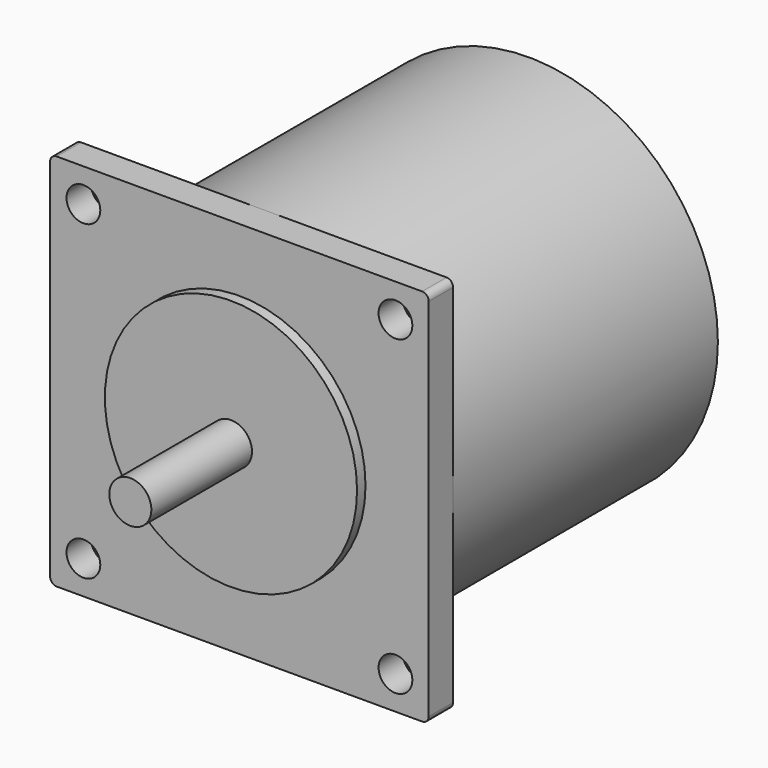
from build123d import *

# Parameters (mm, degrees)
PAD_DEPTH    = 4.6
SKETCH001_R  = 2.55
POCKET_DEPTH = 4.601
SKETCH002_R  = 19.05
PAD001_DEPTH = 1.6
SKETCH003_R  = 3.175
PAD002_DEPTH = 20.6
SKETCH004_R  = 28.6
PAD003_DEPTH = 50


with BuildPart() as part:
    # Sketch → Pad (new body)
    with BuildSketch(Plane.XZ):
        with BuildLine():
            Line((-27.6, 28.6), (27.6, 28.6))
            ThreePointArc((28.6, 27.6), (28.307107, 28.307107), (27.6, 28.6))
            Line((28.6, 27.6), (28.6, -27.6))
            ThreePointArc((27.6, -28.6), (28.307107, -28.307107), (28.6, -27.6))
            Line((27.6, -28.6), (-27.6, -28.6))
            ThreePointArc((-28.6, -27.6), (-28.307107, -28.307107), (-27.6, -28.6))
            Line((-28.6, -27.6), (-28.6, 27.6))
            ThreePointArc((-27.6, 28.6), (-28.307107, 28.307107), (-28.6, 27.6))
        make_face()
    extrude(amount=PAD_DEPTH)

    # Sketch001 (on Face10 of Pad) → Pocket (cut, through all)
    with BuildSketch(Plane.XZ.offset(4.6)):
        with Locations((-23.57, 23.57)):
            Circle(SKETCH001_R)
        with Locations((23.57, 23.57)):
            Circle(SKETCH001_R)
        with Locations((-23.57, -23.57)):
            Circle(SKETCH001_R)
        with Locations((23.57, -23.57)):
            Circle(SKETCH001_R)
    extrude(amount=-POCKET_DEPTH, mode=Mode.SUBTRACT)

    # Sketch002 (on Face5 of Pocket) → Pad001 (new body)
    with BuildSketch(Plane.XZ.offset(4.6)):
        Circle(SKETCH002_R)
    extrude(amount=PAD001_DEPTH)

    # Sketch003 (on Face5 of Pad001) → Pad002 (new body)
    with BuildSketch(Plane.XZ.offset(4.6)):
        Circle(SKETCH003_R)
    extrude(amount=PAD002_DEPTH)

    # Sketch004 (on Face4 of Pad002) → Pad003 (new body)
    with BuildSketch(Plane(origin=(0, 0, 0), x_dir=(1, 0, 0), z_dir=(0, 1, 0))):
        Circle(SKETCH004_R)
    extrude(amount=PAD003_DEPTH)


solid = part.part
